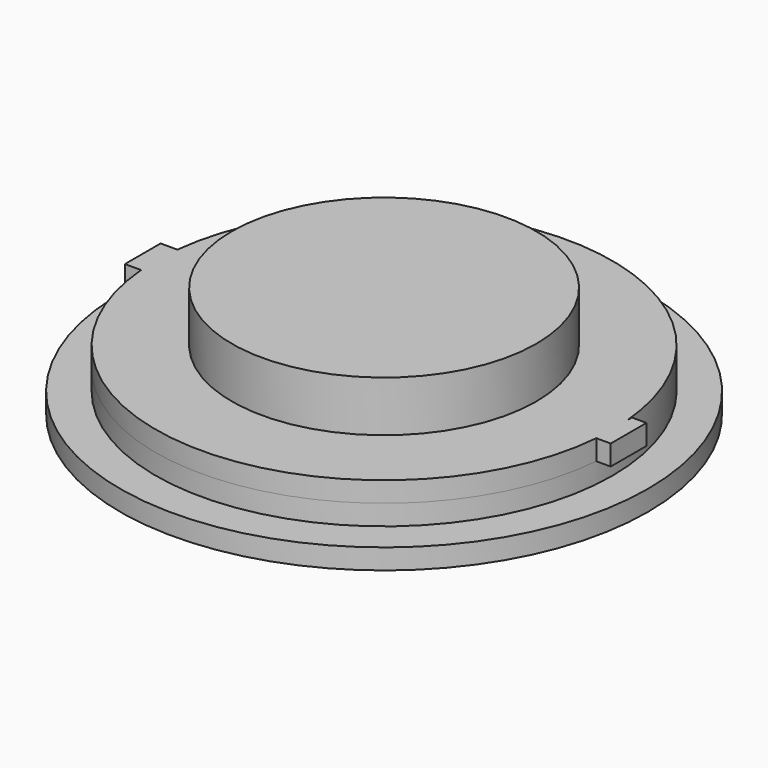
from build123d import *

# Parameters (mm, degrees)
F0_R     = 26
F1_DEPTH = 2
F2_R     = 22.5
F3_DEPTH = 2
F5_DEPTH = 2
F6_R     = 15
F7_DEPTH = 5


with BuildPart() as f1:
    # F0 (on Top) → F1 (new body)
    with BuildSketch(Plane.XY):
        Circle(F0_R)
    extrude(amount=F1_DEPTH)

    # F2 (on face) → F3 (join)
    with BuildSketch(Plane.XY.offset(2)):
        Circle(F2_R)
    extrude(amount=F3_DEPTH)

    # F4 (on face) → F5 (join)
    with BuildSketch(Plane.XY.offset(4)):
        with BuildLine():
            Line((-22.3533584706, -1.8999999156), (-22.3533584706, 2.5002909302))
            Line((-22.3533584706, 2.5002909302), (-22.3606472461, 2.5002909302))
            ThreePointArc((-22.3606472461, 2.5002909302), (-22.4979786383, 0.3015911014), (-22.4196342593, -1.8999999156))
            Line((-22.4196342593, -1.8999999156), (-22.3533584706, -1.8999999156))
        make_face()
        with BuildLine():
            Line((-22.3606472461, 2.5002909302), (-22.3533584706, 2.5002909302))
            Line((-22.3533584706, 2.5002909302), (-22.3533584706, -1.8999999156))
            Line((-22.3533584706, -1.8999999156), (-22.4196342593, -1.8999999156))
            ThreePointArc((-22.4196342593, -1.8999999156), (0, -22.5), (22.4196342593, -1.8999999156))
            Line((22.4196342593, -1.8999999156), (22.4196342593, 1.8999999156))
            ThreePointArc((22.4196342593, 1.8999999156), (0.3015911015, 22.4979786383), (-22.3606472461, 2.5002909302))
        make_face()
        with BuildLine():
            ThreePointArc((-22.4196342593, -1.8999999156), (-22.4979786383, 0.3015911014), (-22.3606472461, 2.5002909302))
            Line((-22.3606472461, 2.5002909302), (-24.011714384, 2.5002909302))
            Line((-24.011714384, 2.5002909302), (-24.011714384, -1.8999999156))
            Line((-24.011714384, -1.8999999156), (-22.4196342593, -1.8999999156))
        make_face()
        with BuildLine():
            ThreePointArc((22.5, 0), (22.4798995865, 0.9508494008), (22.4196342593, 1.8999999156))
            Line((22.4196342593, 1.8999999156), (22.4196342593, -1.8999999156))
            ThreePointArc((22.4196342593, -1.8999999156), (22.4798995865, -0.9508494008), (22.5, 0))
        make_face()
        with BuildLine():
            Line((22.4196342593, 2.5002909302), (22.4196342593, 1.8999999156))
            ThreePointArc((22.4196342593, 1.8999999156), (22.4798995865, 0.9508494008), (22.5, 0))
            ThreePointArc((22.5, 0), (22.4798995865, -0.9508494008), (22.4196342593, -1.8999999156))
            Line((22.4196342593, -1.8999999156), (23.8429448439, -1.8999999156))
            Line((23.8429448439, -1.8999999156), (23.8429448439, 2.5002909302))
            Line((23.8429448439, 2.5002909302), (22.4196342593, 2.5002909302))
        make_face()
    extrude(amount=F5_DEPTH)

    # F6 (on face) → F7 (join)
    with BuildSketch(Plane.XY.offset(6)):
        Circle(F6_R)
    extrude(amount=F7_DEPTH)


solid = f1.part
